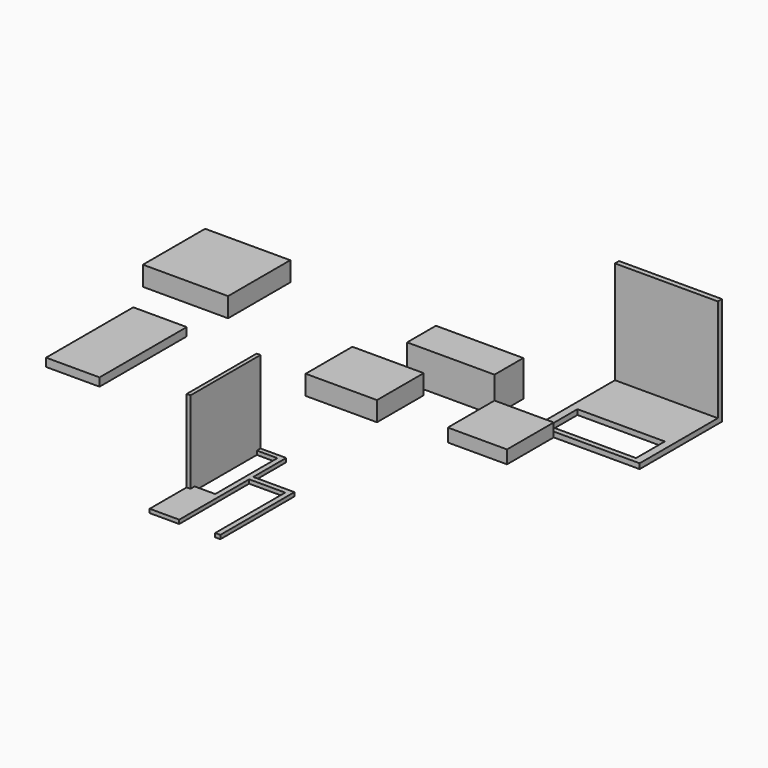
from build123d import *

# Parameters (mm, degrees)
F0_W      = 107.95
F0_H      = 44.45
F1_DEPTH  = 44.45
F2_W      = 73.152
F2_H      = 72.136
F3_DEPTH  = 16.256
F4_W      = 88.138
F4_H      = 72.136
F5_DEPTH  = 24.13
F6_W      = 105.156
F6_H      = 96.012
F7_DEPTH  = 24.13
F8_W      = 66.04
F8_H      = 134.62
F9_DEPTH  = 10.16
F10_W     = 127
F10_H     = 127
F10_W_2   = 107.95
F10_H_2   = 44.45
F11_DEPTH = 6.35
F12_W     = 127
F12_H     = 6.35
F13_DEPTH = 127
F14_W     = 25.4
F14_H     = 96.012
F15_DEPTH = 4.7625
F17_DEPTH = 101.6


with BuildPart() as f1:
    # F0 (on Top) → F1 (new body)
    with BuildSketch(Plane.XY):
        with Locations((-53.975, 22.225)):
            Rectangle(F0_W, F0_H)
    extrude(amount=F1_DEPTH)


with BuildPart() as f3:
    # F2 (on Top) → F3 (new body)
    with BuildSketch(Plane.XY):
        with Locations((36.576, -36.068)):
            Rectangle(F2_W, F2_H)
    extrude(amount=F3_DEPTH)


with BuildPart() as f5:
    # F4 (on Top) → F5 (new body)
    with BuildSketch(Plane.XY):
        with Locations((-123.758520931, -45.7528464716)):
            Rectangle(F4_W, F4_H)
    extrude(amount=F5_DEPTH)


with BuildPart() as f7:
    # F6 (on Top) → F7 (new body)
    with BuildSketch(Plane.XY):
        with Locations((-380.0858573324, 46.0376664996)):
            Rectangle(F6_W, F6_H)
    extrude(amount=F7_DEPTH)


with BuildPart() as f9:
    # F8 (on Top) → F9 (new body)
    with BuildSketch(Plane.XY):
        with Locations((-368.0375140121, -123.6801221967)):
            Rectangle(F8_W, F8_H)
    extrude(amount=F9_DEPTH)


with BuildPart() as f11:
    # F10 (on Top) → F11 (new body)
    with BuildSketch(Plane.XY):
        with Locations((115.7654884709, 63.5)):
            Rectangle(F10_W, F10_H)
        with Locations((115.7654884709, 28.575)):
            Rectangle(F10_W_2, F10_H_2, mode=Mode.SUBTRACT)
    extrude(amount=F11_DEPTH)

    # F12 (on face) → F13 (join)
    with BuildSketch(Plane.XY.offset(6.35)):
        with Locations((115.7654884709, 123.825)):
            Rectangle(F12_W, F12_H)
    extrude(amount=F13_DEPTH)


with BuildPart() as f15:
    # F14 (on Top) → F15 (new body)
    with BuildSketch(Plane.XY):
        Polygon((-95.8492443254, -201.8363135548), (-132.3617443254, -201.8363135548), (-132.3617443254, -366.9363135548), (-95.8492443254, -366.9363135548), (-95.8492443254, -258.9863135548), (-51.3992443254, -258.9863135548), (-51.3992443254, -366.9363135548), (-45.0492443254, -366.9363135548), (-45.0492443254, -252.6363135548), (-95.8492443254, -252.6363135548), align=None)
        with Locations((-114.8992443254, -255.4303135548)):
            Rectangle(F14_W, F14_H, mode=Mode.SUBTRACT)
    extrude(amount=F15_DEPTH)

    # F16 (on face) → F17 (join)
    with BuildSketch(Plane.XY.offset(4.7625)):
        Polygon((-127.5992443254, -201.8363135548), (-132.3617443254, -201.8363135548), (-132.3617443254, -309.7863135548), (-127.5992443254, -309.7863135548), (-127.5992443254, -303.4363135548), (-127.5992443254, -207.4243135548), align=None)
    extrude(amount=F17_DEPTH)


solid = Compound([f1.part, f3.part, f5.part, f7.part, f9.part, f11.part, f15.part])
